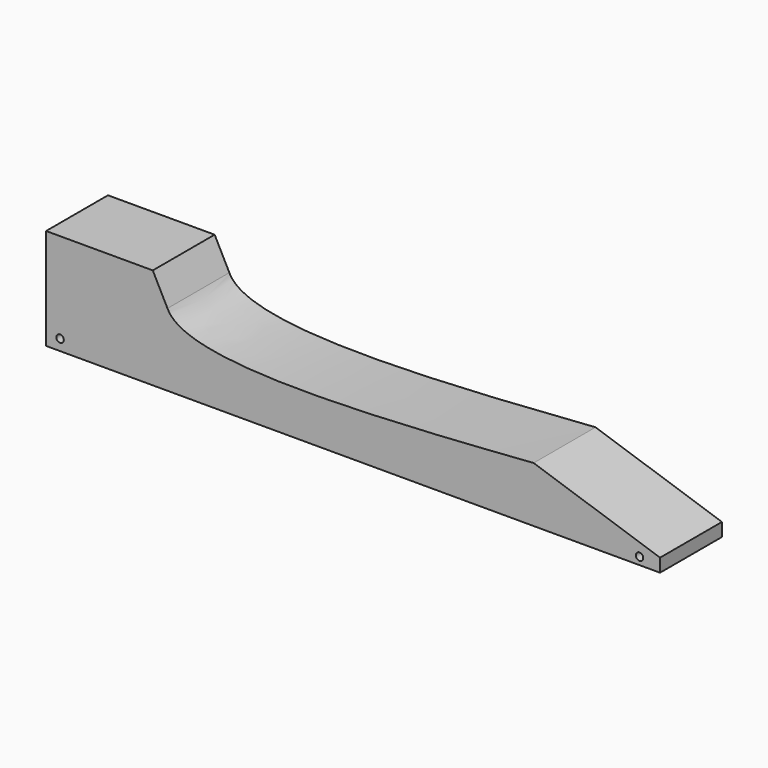
from build123d import *

# Parameters (mm, degrees)
F1_DEPTH  = 38.1
F2_R      = 9.3756609964
F3_DEPTH  = 50.8
F5_DEPTH  = 76.2
F7_DEPTH  = 76.2
F9_DEPTH  = 76.2
F11_DEPTH = 76.2
F13_DEPTH = 76.2
F14_R     = 1.8366933485
F16_DEPTH = 76.2
F15_R     = 1.8367030573
F17_DEPTH = 76.2


with BuildPart() as f1:
    # F0 (on Front) → F1 (new body)
    with BuildSketch(Plane.XZ):
        Polygon((0, 63.5), (0, 0), (302.4093748547, 0), (302.4093748547, 25.4), align=None)
    extrude(amount=F1_DEPTH)

    # F2 (on face) → F3 (cut)
    with BuildSketch(Plane(origin=(0, 0, 0), x_dir=(0, -1, 0), z_dir=(-1, 0, 0))):
        with Locations((19.05, 31.75)):
            Circle(F2_R)
    extrude(amount=-F3_DEPTH, mode=Mode.SUBTRACT)

    # F4 (on face) → F5 (cut)
    with BuildSketch(Plane.XZ.offset(38.1)):
        with BuildLine():
            Line((269.3568159992, 29.5642309965), (61.5471690917, 55.7457855564))
            add(Edge.make_bspline(
                [(61.5471690917, 55.7457855564), (58.8507788185, 47.0996876999), (48.0888197805, 12.590977334), (174.5673004743, 22.2930190768), (269.3568159992, 29.5642309965)],
                knots=[0, 0, 0, 0, 0.2505482751, 1, 1, 1, 1], degree=3))
        make_face()
    extrude(amount=-F5_DEPTH, mode=Mode.SUBTRACT)

    # F6 (on face) → F7 (cut)
    with BuildSketch(Plane.XZ.offset(38.1)):
        with BuildLine():
            Line((0, 63.5), (0, 49.8412624001))
            Line((0, 49.8412624001), (59.7987414655, 49.8412624001))
            add(Edge.make_bspline(
                [(61.5471690917, 55.7457855564), (60.9299090319, 53.7665131444), (60.3126489722, 51.7872407325), (59.7987414655, 49.8412624001)],
                knots=[0, 0, 0, 0, 0.057355734, 0.057355734, 0.057355734, 0.057355734], degree=3))
            Line((61.5471690917, 55.7457855564), (0, 63.5))
        make_face()
    extrude(amount=-F7_DEPTH, mode=Mode.SUBTRACT)

    # F8 (on face) → F9 (cut)
    with BuildSketch(Plane.XZ.offset(38.1)):
        with BuildLine():
            Line((59.7987414655, 49.8412624001), (52.5512769818, 49.8412624001))
            Line((52.5512769818, 49.8412624001), (59.7987414652, 35.7225287025))
            add(Edge.make_bspline(
                [(59.7987414655, 49.8412624001), (58.4403182232, 44.6974142144), (57.8040351338, 39.7861968724), (59.7987414652, 35.7225287025)],
                knots=[0.057355734, 0.057355734, 0.057355734, 0.057355734, 0.2089654324, 0.2089654324, 0.2089654324, 0.2089654324], degree=3))
        make_face()
    extrude(amount=-F9_DEPTH, mode=Mode.SUBTRACT)

    # F10 (on face) → F11 (cut)
    with BuildSketch(Plane.XZ.offset(38.1)):
        Polygon((302.4093748547, 25.4), (269.3568159992, 29.5642309965), (302.4093748547, 6.536568515), align=None)
    extrude(amount=-F11_DEPTH, mode=Mode.SUBTRACT)

    # F12 (on face) → F13 (cut)
    with BuildSketch(Plane.XZ.offset(38.1)):
        with BuildLine():
            add(Edge.make_bspline(
                [(240.1607868718, 27.3452845776), (249.8366976467, 28.0668616255), (259.596756823, 28.815546311), (269.3568159992, 29.5642309965)],
                knots=[0.9228322548, 0.9228322548, 0.9228322548, 0.9228322548, 1, 1, 1, 1], degree=3))
            Line((240.1607868718, 27.3452845776), (302.4093748547, 6.536568515))
            Line((302.4093748547, 6.536568515), (269.3568159992, 29.5642309965))
        make_face()
    extrude(amount=-F13_DEPTH, mode=Mode.SUBTRACT)

    # F14 (on face) → F16 (cut)
    with BuildSketch(Plane.XZ.offset(38.1)):
        with Locations((6.889551878, 5.4092812352)):
            Circle(F14_R)
    extrude(amount=-F16_DEPTH, mode=Mode.SUBTRACT)

    # F15 (on face) → F17 (cut)
    with BuildSketch(Plane.XZ.offset(38.1)):
        with Locations((292.2985553741, 3.6882217973)):
            Circle(F15_R)
    extrude(amount=-F17_DEPTH, mode=Mode.SUBTRACT)


solid = f1.part
